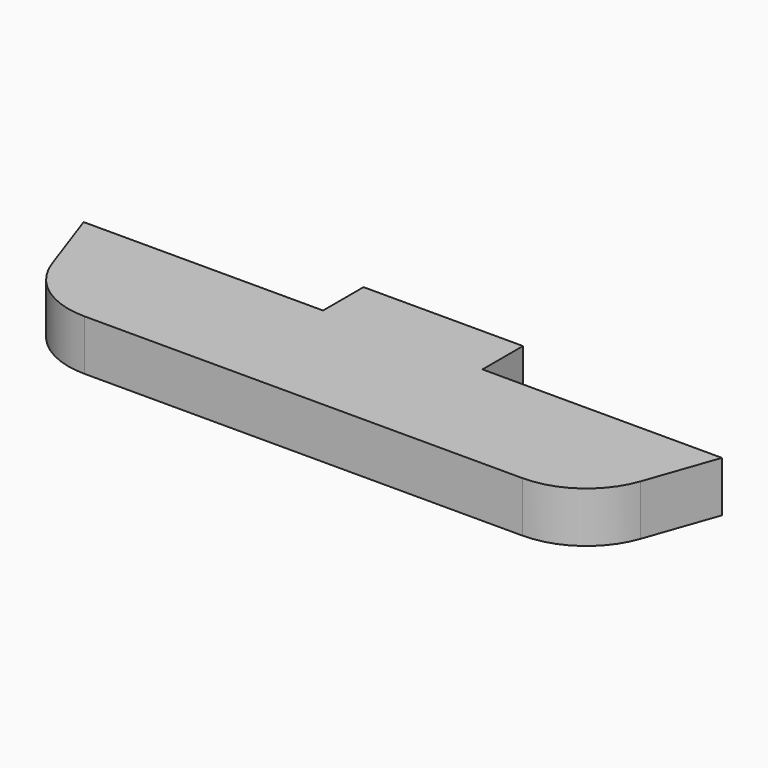
from build123d import *

# Parameters (mm, degrees)
F1_DEPTH = 3.175


with BuildPart() as f1:
    # F0 (on Top) → F1 (new body)
    with BuildSketch(Plane.XY):
        with BuildLine():
            Line((16.472476, -2.334662), (1.451856, -2.334662))
            Line((1.451856, -2.334662), (1.451856, 0.840338))
            Line((1.451856, 0.840338), (-3.548144, 0.840338))
            Line((-3.548144, 0.840338), (-8.548144, 0.840338))
            Line((-8.548144, 0.840338), (-8.548144, -2.334662))
            Line((-8.548144, -2.334662), (-23.568764, -2.334662))
            Line((-23.568764, -2.334662), (-22.014959, -6.771424))
            ThreePointArc((-22.014959, -6.771424), (-20.188797, -9.196969), (-17.295978, -10.118783))
            Line((-17.295978, -10.118783), (10.199691, -10.118783))
            ThreePointArc((10.199691, -10.118783), (13.092509, -9.196969), (14.918671, -6.771424))
            Line((14.918671, -6.771424), (16.472476, -2.334662))
        make_face()
    extrude(amount=F1_DEPTH)


solid = f1.part
